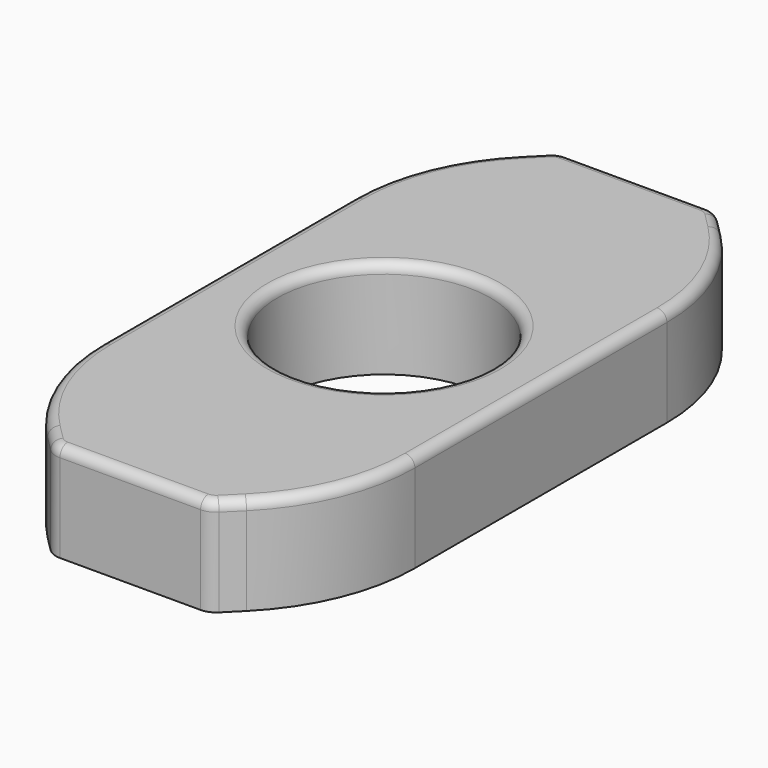
from build123d import *

# Parameters (mm, degrees)
F0_W     = 8
F0_H     = 16.1739148081
F1_DEPTH = 2.5
F2_SIZE  = 2
F3_R     = 5
F4_R     = 0.5
F5_R     = 2.719161288
F6_DEPTH = 25
F7_R     = 0.25


with BuildPart() as f1:
    # F0 (on Top) → F1 (new body)
    with BuildSketch(Plane.XY):
        with Locations((-48.8695710708, 8.0869574041)):
            Rectangle(F0_W, F0_H)
    extrude(amount=F1_DEPTH)

    # F2
    f2_edges = [f1.edges().sort_by_distance(p)[0] for p in [
        (-44.869571, 0, 1.25),
        (-52.869571, 0, 1.25),
        (-44.869571, 16.173915, 1.25),
        (-52.869571, 16.173915, 1.25),
    ]]
    chamfer(f2_edges, length=F2_SIZE)

    # F3
    f3_edges = [f1.edges().sort_by_distance(p)[0] for p in [
        (-52.869571, 14.173915, 1.25),
        (-52.869571, 2, 1.25),
        (-44.869571, 2, 1.25),
        (-44.869571, 14.173915, 1.25),
    ]]
    fillet(f3_edges, radius=F3_R)

    # F4
    f4_edges = [f1.edges().sort_by_distance(p)[0] for p in [
        (-50.869571, 16.173915, 1.25),
        (-46.869571, 16.173915, 1.25),
        (-46.869571, 0, 1.25),
        (-50.869571, 0, 1.25),
    ]]
    fillet(f4_edges, radius=F4_R)

    # F5 (on face) → F6 (cut)
    with BuildSketch(Plane.XY.offset(2.5)):
        with Locations((-48.8695710708, 8.0869574041)):
            Circle(F5_R)
    extrude(amount=-F6_DEPTH, mode=Mode.SUBTRACT)

    # F7
    f7_edges = [f1.edges().sort_by_distance(p)[0] for p in [
        (-51.588732, 8.086957, 2.5),
        (-52.869571, 8.086957, 2.5),
    ]]
    fillet(f7_edges, radius=F7_R)


solid = f1.part
